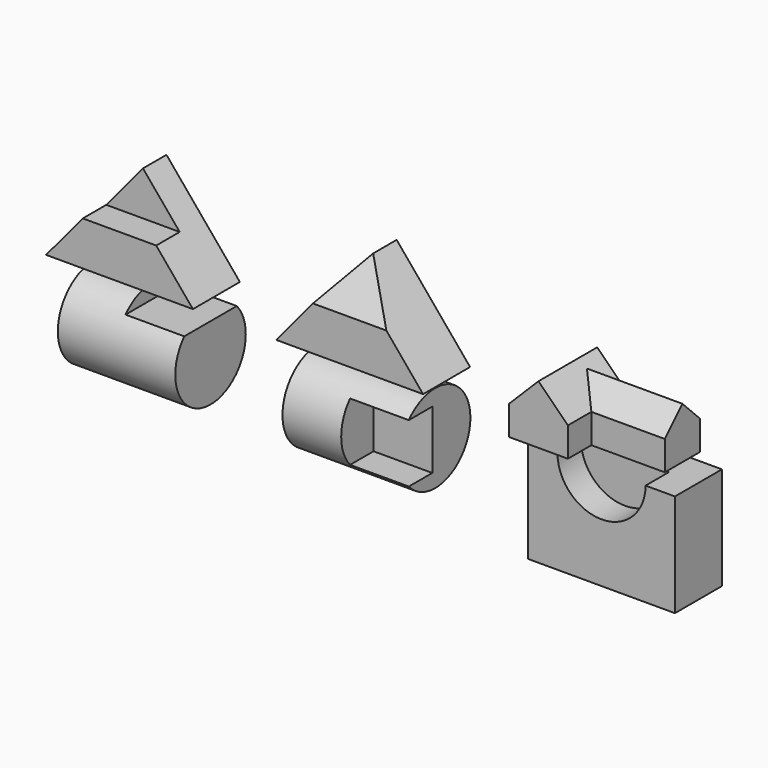
from build123d import *

# Parameters (mm, degrees)
F1_DEPTH  = 101.6
F3_DEPTH  = 50.8
F5_DEPTH  = 101.6
F7_DEPTH  = 101.6
F11_DEPTH = 63.5
F12_W     = 127
F12_H     = 50.8
F13_DEPTH = 127
F15_DEPTH = 164.338
F16_W     = 127
F16_H     = 50.8
F17_DEPTH = 50.8
F18_R     = 76.2
F19_DEPTH = 203.2
F21_DEPTH = 101.6
F23_R     = 76.2
F24_DEPTH = 203.2
F26_DEPTH = 101.6
F27_W     = 254
F27_H     = 177.8
F28_DEPTH = 101.6
F30_DEPTH = 50.8


with BuildPart() as f1:
    # F0 (on Front) → F1 (new body)
    with BuildSketch(Plane.XZ):
        Polygon((63.5, 76.2), (0, 0), (254, 0), (190.5, 76.2), (127, 76.2), align=None)
        Polygon((127, 152.4), (63.5, 76.2), (127, 76.2), (190.5, 76.2), align=None)
    extrude(amount=F1_DEPTH)

    # F2 (on face) → F3 (cut)
    with BuildSketch(Plane.XZ.offset(101.6)):
        Polygon((63.5, 76.2), (127, 76.2), (190.5, 76.2), (127, 152.4), align=None)
    extrude(amount=-F3_DEPTH, mode=Mode.SUBTRACT)

    # F6 (on face) → F7 (cut)
    with BuildSketch(Plane(origin=(384.9111806809, 0, 320.759317234), x_dir=(0, 1, 0), z_dir=(0.7682212796, 0, 0.6401843997))):
        Polygon((-101.6, -219.1547171438), (-101.6, -318.3448880279), (-50.8, -219.1547171438), align=None)
    extrude(amount=F7_DEPTH, mode=Mode.SUBTRACT)


with BuildPart() as f5:
    # F4 (on Front) → F5 (new body)
    with BuildSketch(Plane.XZ):
        Polygon((525.2106117092, 152.4), (398.2106117092, 0), (652.2106117092, 0), align=None)
    extrude(amount=F5_DEPTH)

    # F10 (on 3pt) → F11 (cut, symmetric)
    with BuildSketch(Plane.YZ.offset(525.2106117092)):
        Polygon((-50.8, 152.4), (-101.6, 152.4), (-101.6, 76.2), align=None)
    extrude(amount=F11_DEPTH, both=True, mode=Mode.SUBTRACT)


with BuildPart() as f13:
    # F12 (on Front) → F13 (new body)
    with BuildSketch(Plane.XZ):
        Polygon((821.4010382175, 0), (923.0010382175, 0), (923.0010382175, 50.8), (872.2010382175, 101.6), (821.4010382175, 50.8), align=None)
        with Locations((986.5010382175, 25.4)):
            Rectangle(F12_W, F12_H)
    extrude(amount=F13_DEPTH)

    # F14 (on face) → F15 (join)
    with BuildSketch(Plane.YZ.offset(1050.0010382175)):
        Polygon((-38.1, 88.9), (-76.2, 50.8), (0, 50.8), align=None)
    extrude(amount=-F15_DEPTH)

    # F16 (on face) → F17 (cut)
    with BuildSketch(Plane.XZ.offset(127)):
        with Locations((986.5010382175, 25.4)):
            Rectangle(F16_W, F16_H)
    extrude(amount=-F17_DEPTH, mode=Mode.SUBTRACT)


with BuildPart() as f19:
    # F18 (on Right) → F19 (new body)
    with BuildSketch(Plane.YZ):
        with Locations((0, -127)):
            Circle(F18_R)
    extrude(amount=F19_DEPTH)

    # F20 (on face) → F21 (cut)
    with BuildSketch(Plane.YZ.offset(203.2)):
        with BuildLine():
            Line((-56.7961266285, -76.2), (0, -76.2))
            Line((0, -76.2), (0, -50.8))
            ThreePointArc((0, -50.8), (-31.1085197333, -57.4392351968), (-56.7961266285, -76.2))
        make_face()
        with BuildLine():
            Line((0, -50.8), (0, -76.2))
            Line((0, -76.2), (56.7961266285, -76.2))
            ThreePointArc((56.7961266285, -76.2), (31.1085197333, -57.4392351968), (0, -50.8))
        make_face()
    extrude(amount=-F21_DEPTH, mode=Mode.SUBTRACT)


with BuildPart() as f24:
    # F23 (on offset) → F24 (new body)
    with BuildSketch(Plane.YZ.offset(388.62)):
        with Locations((0, -127.9042363167)):
            Circle(F23_R)
    extrude(amount=F24_DEPTH)

    # F25 (on face) → F26 (cut)
    with BuildSketch(Plane.YZ.offset(591.82)):
        with BuildLine():
            Line((-57.0227449789, -178.4497262745), (-6.2227449789, -178.4497262745))
            Line((-6.2227449789, -178.4497262745), (-6.2227449789, -77.3587463589))
            Line((-6.2227449789, -77.3587463589), (-57.0227449789, -77.3587463589))
            ThreePointArc((-57.0227449789, -77.3587463589), (-76.2, -127.9042363167), (-57.0227449789, -178.4497262745))
        make_face()
    extrude(amount=-F26_DEPTH, mode=Mode.SUBTRACT)


with BuildPart() as f28:
    # F27 (on Front) → F28 (new body)
    with BuildSketch(Plane.XZ):
        with Locations((960.9007537365, -103.0196546078)):
            Rectangle(F27_W, F27_H)
    extrude(amount=F28_DEPTH)

    # F29 (on face) → F30 (cut)
    with BuildSketch(Plane.XZ.offset(101.6)):
        with BuildLine():
            ThreePointArc((884.7007537365, -14.1196546078), (960.9007537365, -90.3196546078), (1037.1007537365, -14.1196546078))
            Line((1037.1007537365, -14.1196546078), (884.7007537365, -14.1196546078))
        make_face()
    extrude(amount=-F30_DEPTH, mode=Mode.SUBTRACT)


solid = Compound([f1.part, f5.part, f13.part, f19.part, f24.part, f28.part])
